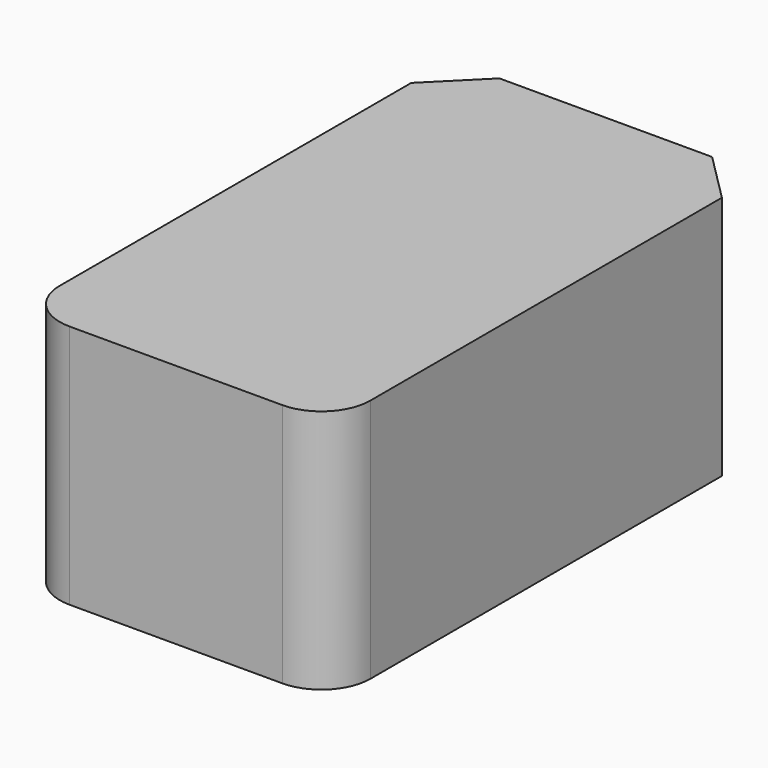
from build123d import *

# Parameters (mm, degrees)
F0_W     = 31.707764
F0_H     = 54.837252
F1_DEPTH = 25
F2_SIZE  = 5
F3_R     = 5


with BuildPart() as f1:
    # F0 (on Top) → F1 (new body)
    with BuildSketch(Plane.XY):
        Rectangle(F0_W, F0_H)
    extrude(amount=F1_DEPTH)

    # F2
    f2_edges = [f1.edges().sort_by_distance(p)[0] for p in [
        (15.853882, 27.418626, 12.5),
        (-15.853882, 27.418626, 12.5),
    ]]
    chamfer(f2_edges, length=F2_SIZE)

    # F3
    f3_edges = [f1.edges().sort_by_distance(p)[0] for p in [
        (-15.853882, -27.418626, 12.5),
        (15.853882, -27.418626, 12.5),
    ]]
    fillet(f3_edges, radius=F3_R)


solid = f1.part
